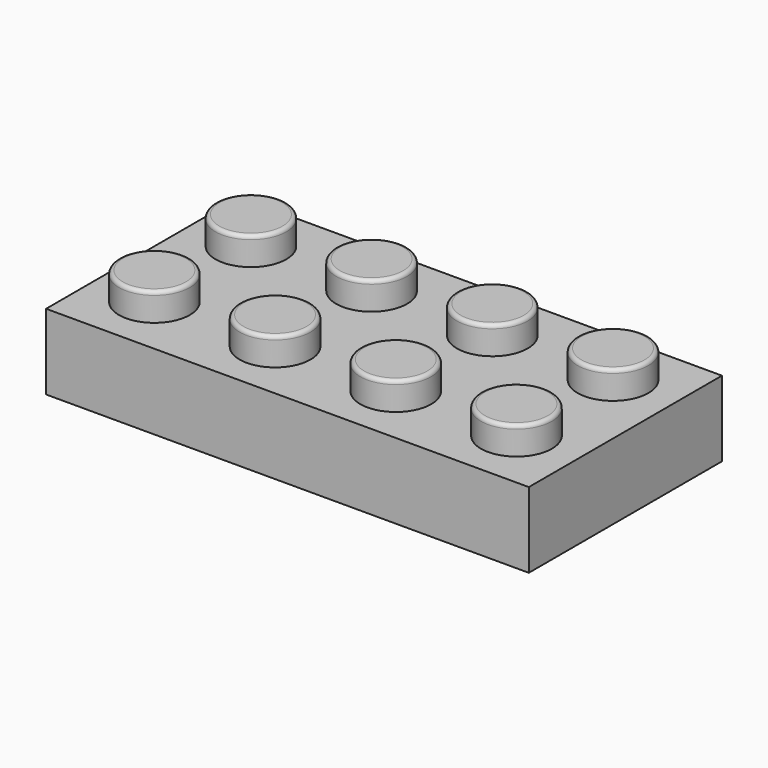
from build123d import *

# Parameters (mm, degrees)
F0_W     = 32.004
F0_H     = 16.002
F1_DEPTH = 5.0038
F2_R     = 2.3495
F3_DEPTH = 1.8542
F4_R     = 0.254


with BuildPart() as f1:
    # F0 (on Top) → F1 (new body)
    with BuildSketch(Plane.XY):
        with Locations((16.002, 8.001)):
            Rectangle(F0_W, F0_H)
    extrude(amount=F1_DEPTH)

    # F2 (on face) → F3 (join)
    with BuildSketch(Plane.XY.offset(5.0038)):
        with Locations((3.8989, 4.1021)):
            Circle(F2_R)
        with Locations((3.8989, 12.1031)):
            Circle(F2_R)
        with Locations((11.8999, 12.1031)):
            Circle(F2_R)
        with Locations((11.8999, 4.1021)):
            Circle(F2_R)
        with Locations((19.9009, 4.1021)):
            Circle(F2_R)
        with Locations((19.9009, 12.1031)):
            Circle(F2_R)
        with Locations((27.9019, 12.1031)):
            Circle(F2_R)
        with Locations((27.9019, 4.1021)):
            Circle(F2_R)
    extrude(amount=F3_DEPTH)

    # F4
    f4_edges = [f1.edges().sort_by_distance(p)[0] for p in [
        (1.5494, 4.1021, 6.858),
        (1.5494, 12.1031, 6.858),
        (9.5504, 4.1021, 6.858),
        (9.5504, 12.1031, 6.858),
        (17.5514, 4.1021, 6.858),
        (17.5514, 12.1031, 6.858),
        (25.5524, 12.1031, 6.858),
        (25.5524, 4.1021, 6.858),
    ]]
    fillet(f4_edges, radius=F4_R)


solid = f1.part
